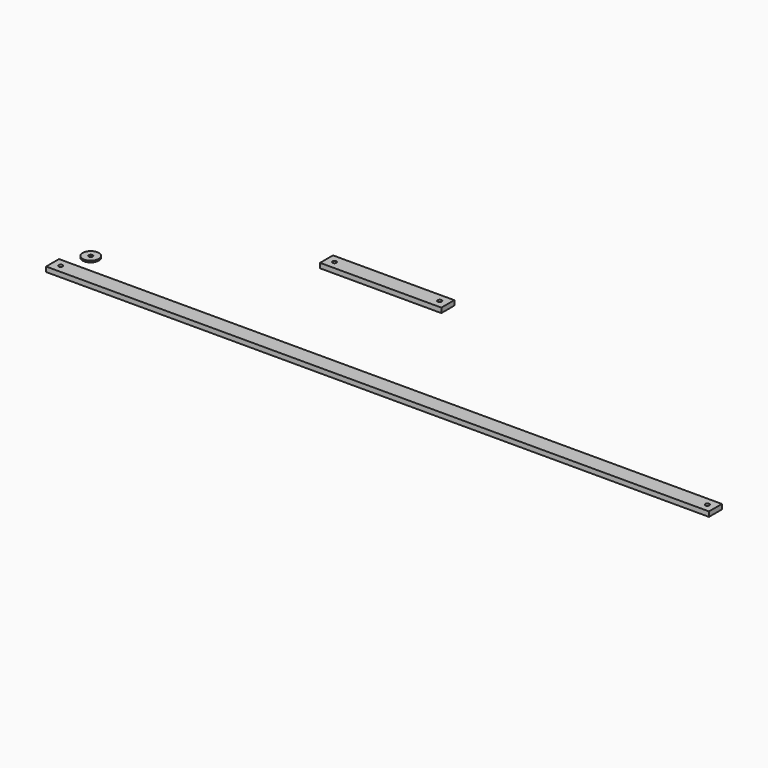
from build123d import *

# Parameters (mm, degrees)
F0_R     = 2.5
F1_DEPTH = 6
F2_R     = 10
F2_R_2   = 2.5
F3_DEPTH = 2
F4_W     = 150
F4_H     = 20
F4_R     = 2.5
F5_DEPTH = 6


with BuildPart() as f1:
    # F0 (on Top) → F1 (new body)
    with BuildSketch(Plane.XY):
        Polygon((622.201137, -10), (622.201137, 0), (622.201137, 10), (-197.798863, 10), (-197.798863, 0), (-197.798863, -10), align=None)
        with Locations((-187.798863, 0)):
            Circle(F0_R, mode=Mode.SUBTRACT)
        with Locations((612.201137, 0)):
            Circle(F0_R, mode=Mode.SUBTRACT)
    extrude(amount=F1_DEPTH)


with BuildPart() as f3:
    # F2 (on Top) → F3 (new body)
    with BuildSketch(Plane.XY):
        with Locations((-182.853356, 40.318504)):
            Circle(F2_R)
        with Locations((-182.853356, 40.318504)):
            Circle(F2_R_2, mode=Mode.SUBTRACT)
    extrude(amount=F3_DEPTH)


with BuildPart() as f5:
    # F4 (on Top) → F5 (new body)
    with BuildSketch(Plane.XY):
        with Locations((79.020846, 171.35557)):
            Rectangle(F4_W, F4_H)
        with Locations((14.020846, 171.35557)):
            Circle(F4_R, mode=Mode.SUBTRACT)
        with Locations((144.020846, 171.35557)):
            Circle(F4_R, mode=Mode.SUBTRACT)
    extrude(amount=F5_DEPTH)


solid = Compound([f1.part, f3.part, f5.part])
